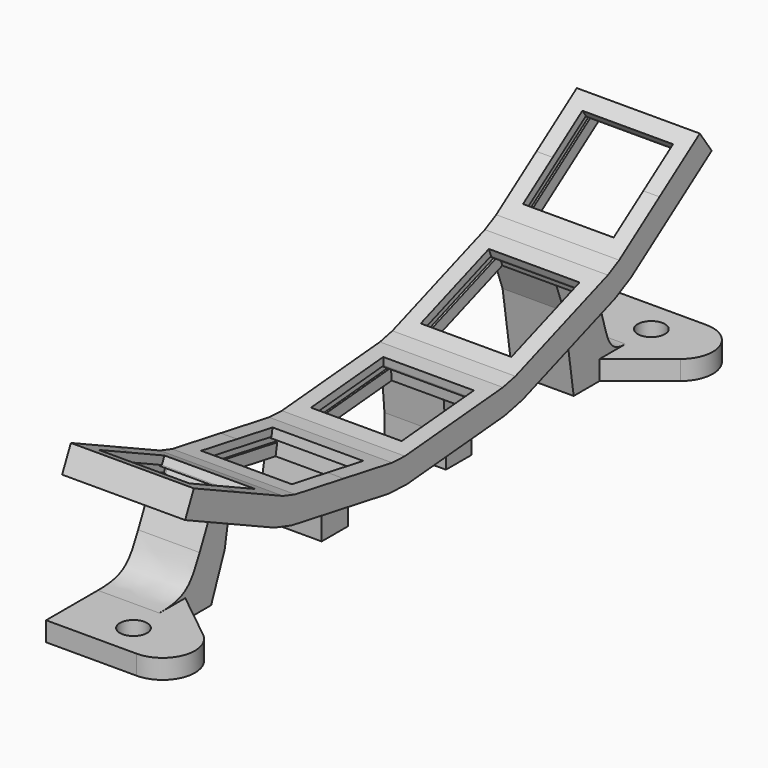
from build123d import *

# Parameters (mm, degrees)
PAD_DEPTH       = 9.5
PAD001_DEPTH    = 9.5
SKETCH002_R     = 2.1
PAD002_DEPTH    = 3
POCKET_DEPTH    = 7
POCKET001_DEPTH = 7.3


with BuildPart() as part:
    # Sketch → Pad (new body, symmetric)
    with BuildSketch(Plane.YZ):
        Polygon((-9.4638496319, 12.9847787924), (0, 13.8127583485), (9.4638496319, 14.6407379046), (11.8731622478, 15.1748696522), (20.8002421453, 18.4240610138), (29.7273220428, 21.6732523754), (31.9162958532, 22.8127600156), (39.698240274, 28.2617361609), (47.4801846947, 33.7107123063), (49.7744904401, 30.4341041291), (34.2106015986, 19.5361518385), (31.0954026161, 17.9144818922), (13.2412428211, 11.416099169), (9.8124726029, 10.6559591122), (-9.1152266609, 9), (-12.6239030908, 9.1531921213), (-31.335250398, 12.452507497), (-34.6847225392, 13.5085920065), (-51.9045704929, 21.5383389795), (-50.2140974459, 25.1635701277), (-41.604173469, 21.1486966411), (-32.9942494922, 17.1338231546), (-30.6406576873, 16.391738509), (-21.2849840337, 14.7420808212), (-11.9293103801, 13.0924231333), align=None)
    extrude(amount=PAD_DEPTH, both=True)

    # Sketch001 → Pad001 (join)
    with BuildSketch(Plane.YZ):
        with BuildLine():
            Line((-32.3771396349, 6.543661009), (-30.6406576873, 16.391738509))
            Line((-30.6406576873, 16.391738509), (-32.9942494922, 17.1338231546))
            Line((-32.9942494922, 17.1338231546), (-37.2204319887, 8.0707452278))
            add(Edge.make_bspline(
                [(-37.2204319887, 8.0707452278), (-39.0096730727, 4.2337052069), (-40, 3), (-45, 3)],
                knots=[0, 0, 0, 0, 1, 1, 1, 1], degree=3))
            Line((-45, 3), (-45, 0))
            Line((-45, 0), (-35, 0))
            Line((-35, 0), (-32.3771396349, 6.543661009))
        make_face()
        Polygon((-13.6657925125, 3.2443456659), (-11.9293103801, 13.0924231333), (-9.4638496319, 12.9847787924), (-8.5922920505, 3.0228318249), (-8.5922920505, 0), (-13.6657925125, 0), align=None)
        Polygon((15.2933760081, 5.777947931), (11.8731622478, 15.1748696522), (9.4638496319, 14.6407379046), (10.3354072218, 4.6787909379), (10.3354072218, 0), (15.2933760081, 0), align=None)
        with BuildLine():
            Line((37.6520787719, 14.6212525652), (31.9162958532, 22.8127600156))
            Line((31.9162958532, 22.8127600156), (29.7273220428, 21.6732523754))
            Line((29.7273220428, 21.6732523754), (33.1475397634, 12.2763320956))
            Line((33.1475397634, 12.2763320956), (35, 0))
            Line((35, 0), (45, 0))
            Line((45, 0), (45, 2.9999999999))
            add(Edge.make_bspline(
                [(37.6520787719, 14.6212525652), (42.2621602037, 8.0374056988), (40, 2.999999954), (45, 2.9999999999)],
                knots=[0, 0, 0, 0, 1, 1, 1, 1], degree=3))
        make_face()
    extrude(amount=-PAD001_DEPTH)

    # Sketch002 → Pad002 (join)
    with BuildSketch(Plane.XY):
        with BuildLine():
            Line((0, -45), (-9.5, -45))
            Line((-9.5, -45), (-9.5, -55))
            Line((-9.5, -55), (4.5, -55))
            ThreePointArc((4.5, -55), (9.218348401, -51.6544450327), (7.6224992299, -46.0948753465))
            Line((0, -40), (7.6224992299, -46.0948753465))
            Line((0, -45), (0, -40))
        make_face()
        with Locations((0, -50)):
            Circle(SKETCH002_R, mode=Mode.SUBTRACT)
        with BuildLine():
            Line((0, 40), (0, 45))
            Line((0, 45), (-9.5, 45))
            Line((-9.5, 45), (-9.5, 55))
            Line((-9.5, 55), (4.5, 55))
            ThreePointArc((7.6224992299, 46.0948753465), (9.218348401, 51.6544450327), (4.5, 55))
            Line((7.6224992299, 46.0948753465), (0, 40))
        make_face()
        with Locations((0, 50)):
            Circle(SKETCH002_R, mode=Mode.SUBTRACT)
    extrude(amount=PAD002_DEPTH)

    # Sketch003 → Pocket (cut, symmetric)
    with BuildSketch(Plane.YZ):
        Polygon((-41.604173469, 21.1486966411), (-47.9483279783, 24.1070244733), (-48.540006161, 22.8381994546), (-49.718193731, 23.3875973412), (-50.8170011484, 21.0311970654), (-43.294646516, 17.523465493), (-35.7722918836, 14.0157339205), (-34.6734849555, 16.3721344244), (-35.85169762, 16.9215440128), (-35.2600189598, 18.190368809), align=None)
        Polygon((-28.1786383048, 15.9576180648), (-21.2849840337, 14.7420808212), (-14.3913297626, 13.5265435775), (-14.6344411843, 12.1478134238), (-13.3541878452, 11.922070218), (-13.8056723944, 9.3615699345), (-21.9795767444, 10.8028498091), (-30.1534810944, 12.2441296838), (-29.7019944172, 14.804629592), (-28.4217543468, 14.5788887258), align=None)
        Polygon((-6.9733628866, 13.2026681492), (0, 13.8127583484), (6.9733628866, 14.4228485476), (7.095382718, 13.0281761271), (8.3904355218, 13.141478566), (8.6170389651, 10.5513722208), (0.348622971, 9.8279795561), (-7.9197930232, 9.1045868913), (-8.1463876723, 11.6946940059), (-6.8513440135, 11.8079956448), align=None)
        Polygon((14.2223937998, 16.0299200105), (20.8002421453, 18.4240610138), (27.3780904908, 20.818202017), (27.8569247953, 19.5026345695), (29.078522765, 19.9472598688), (29.9677714711, 17.5040577202), (22.1683227186, 14.6652905306), (14.3688739661, 11.826523341), (13.4796328313, 14.2697282453), (14.7012277436, 14.7143524317), align=None)
        Polygon((33.964175964, 24.2467011065), (39.698240274, 28.2617361609), (45.432304584, 32.2767712154), (46.2353249737, 31.1299677214), (47.3002248466, 31.8756186398), (48.7915131317, 29.7458160079), (42.5661276004, 24.1659795418), (35.1935891965, 20.2244471644), (33.7022965595, 22.3542467491), (34.7671909619, 23.0998938371), align=None)
    extrude(amount=POCKET_DEPTH, both=True, mode=Mode.SUBTRACT)

    # Sketch004 → Pocket001 (cut, symmetric)
    with BuildSketch(Plane.YZ):
        Polygon((-48.4554802378, 23.0194599531), (-35.767171314, 17.1028043329), (-35.85169762, 16.9215440128), (-34.6734849555, 16.3721344244), (-35.0115879447, 15.6470921024), (-50.0562968731, 22.6625550904), (-49.718193731, 23.3875973412), (-48.540006161, 22.8381994546), align=None)
        Polygon((-29.7019944172, 14.804629592), (-29.8409228744, 14.0167851379), (-13.4931156588, 11.1342256504), (-13.3541878452, 11.922070218), (-14.6344411843, 12.1478134238), (-14.5997166858, 12.3447758803), (-28.3870287718, 14.7758509925), (-28.4217543468, 14.5788887258), align=None)
        Polygon((-6.8687714614, 12.0072349082), (-6.8513440135, 11.8079956448), (-8.1463876723, 11.6946940059), (-8.0766611038, 10.8977384201), (8.4601662766, 12.3445233466), (8.3904355218, 13.141478566), (7.095382718, 13.0281761271), (7.0779548525, 13.2274153539), align=None)
        Polygon((14.6328259169, 14.9022917574), (14.7012277436, 14.7143524317), (13.4796328313, 14.2697282453), (13.753251107, 13.5179749352), (29.3521455498, 19.1955081999), (29.078522765, 19.9472598688), (27.8569247953, 19.5026345695), (27.7885225257, 19.690573734), align=None)
        Polygon((34.7671909619, 23.0998938371), (33.7022965595, 22.3542467491), (34.1611654182, 21.698930512), (47.7590897918, 31.2202996624), (47.3002248466, 31.8756186398), (46.2353249737, 31.1299677214), (46.1206093491, 31.2937978941), (34.6524768556, 23.2637250729), align=None)
    extrude(amount=POCKET001_DEPTH, both=True, mode=Mode.SUBTRACT)


with BuildPart() as part_1:
    # Body placement: moved
    add(part.part.moved(Location((10, -10, 15))))


solid = part_1.part
